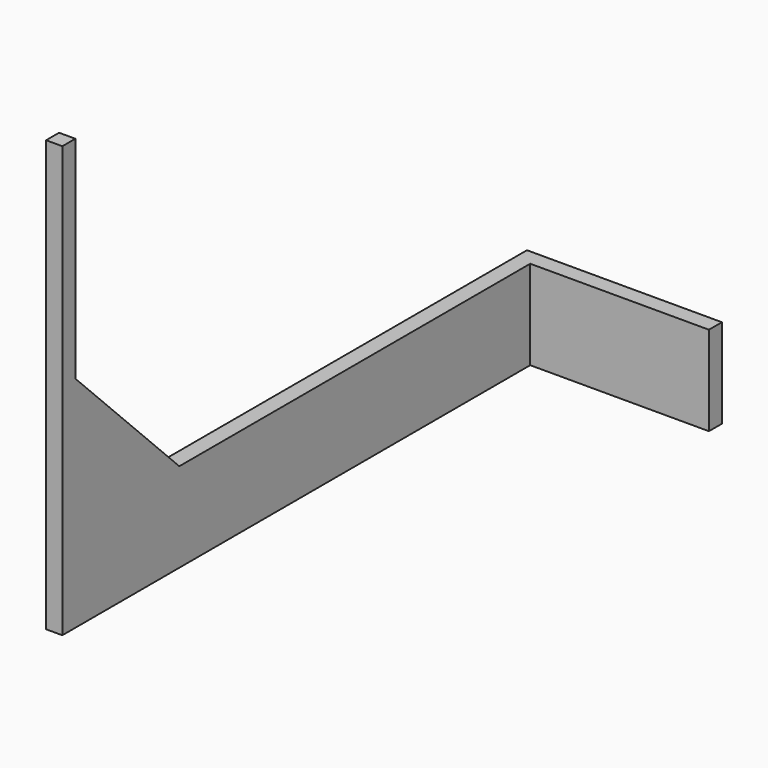
from build123d import *

# Parameters (mm, degrees)
EXTRUDE039_DEPTH = 15
EXTRUDE038_DEPTH = 26.5


with BuildPart() as extrude039:
    # Sketch046 → Extrude039 (new body)
    with BuildSketch(Plane(origin=(-14, 0, 0), x_dir=(0, -1, 0), z_dir=(-1, 0, 0))):
        Polygon((0, 4), (0, -12), (-8, -20), (-41, -20), (-41, 4), align=None)
    extrude(amount=-EXTRUDE039_DEPTH)


with BuildPart() as cut009:
    # Sketch045 → Extrude038 (new body)
    with BuildSketch(Plane.XY.offset(-25.5)):
        Polygon((-11, -1), (-11, 35), (0, 35), (0, 36), (-12, 36), (-12, -1), align=None)
    extrude(amount=EXTRUDE038_DEPTH)

    # Cut009: cut Extrude039
    add(extrude039.part, mode=Mode.SUBTRACT)


solid = cut009.part
